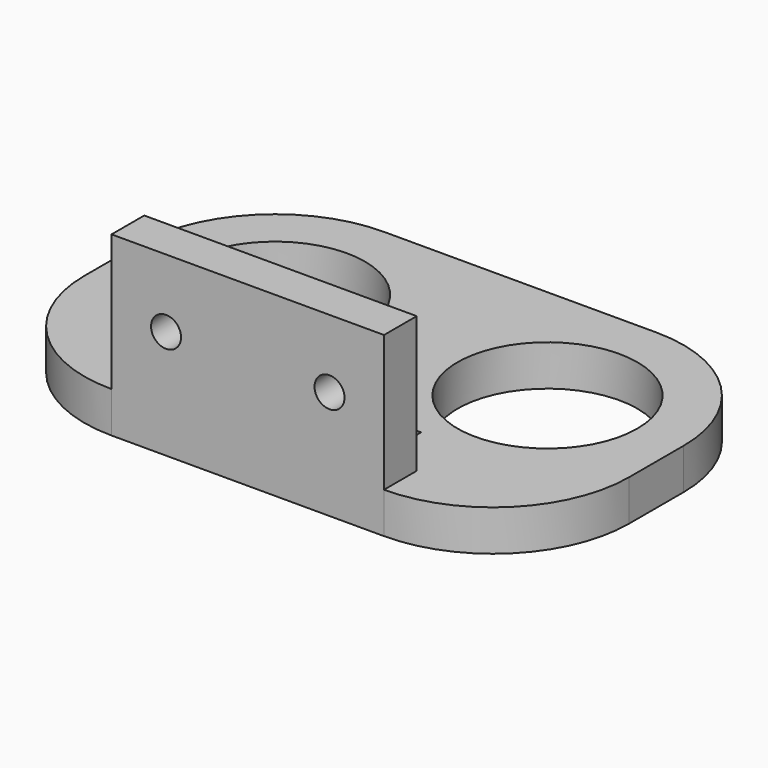
from build123d import *

# Parameters (mm, degrees)
F0_R     = 8.382
F1_DEPTH = 3.81
F2_W     = 25.4
F2_H     = 3.81
F3_DEPTH = 12.7
F4_R     = 1.397
F5_DEPTH = 25.4
F6_W     = 18.314426
F6_H     = 2.959909
F7_DEPTH = 25.4


with BuildPart() as f1:
    # F0 (on Top) → F1 (new body)
    with BuildSketch(Plane.XY):
        with BuildLine():
            ThreePointArc((25.4, 3.175), (21.680256, 12.155256), (12.7, 15.875))
            Line((12.7, 15.875), (-12.7, 15.875))
            ThreePointArc((-12.7, 15.875), (-21.680256, 12.155256), (-25.4, 3.175))
            Line((-25.4, 3.175), (-25.4, -3.175))
            ThreePointArc((-25.4, -3.175), (-21.680256, -12.155256), (-12.7, -15.875))
            Line((-12.7, -15.875), (12.7, -15.875))
            ThreePointArc((12.7, -15.875), (21.680256, -12.155256), (25.4, -3.175))
            Line((25.4, -3.175), (25.4, 3.175))
        make_face()
        with Locations((-12.7, 3.175)):
            Circle(F0_R, mode=Mode.SUBTRACT)
        with Locations((12.7, 3.175)):
            Circle(F0_R, mode=Mode.SUBTRACT)
    extrude(amount=F1_DEPTH)

    # F2 (on face) → F3 (join)
    with BuildSketch(Plane.XY.offset(3.81)):
        with Locations((0, -13.97)):
            Rectangle(F2_W, F2_H)
    extrude(amount=F3_DEPTH)

    # F4 (on face) → F5 (cut)
    with BuildSketch(Plane(origin=(0, -12.065, 0), x_dir=(-1, 0, 0), z_dir=(0, 1, 0))):
        with Locations((-7.62, 10.16)):
            Circle(F4_R)
        with Locations((7.62, 10.16)):
            Circle(F4_R)
    extrude(amount=-F5_DEPTH, mode=Mode.SUBTRACT)

    # F6 (on face) → F7 (cut)
    with BuildSketch(Plane(origin=(0, 0, 0), x_dir=(1, 0, 0), z_dir=(0, 0, -1))):
        with Locations((0, 8.60223)):
            Rectangle(F6_W, F6_H)
    extrude(amount=-F7_DEPTH, mode=Mode.SUBTRACT)


solid = f1.part
